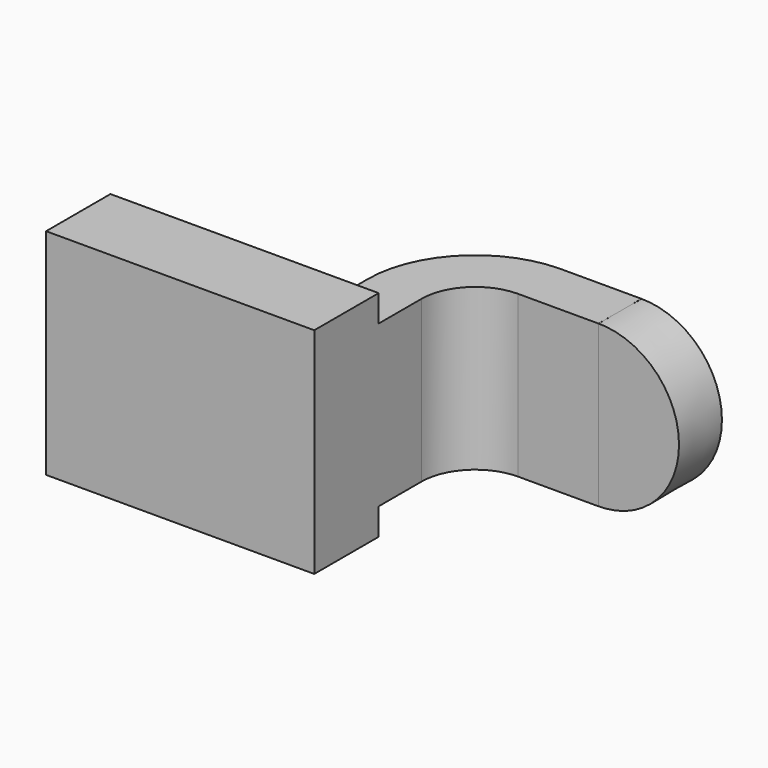
from build123d import *

# Parameters (mm, degrees)
F1_DEPTH      = 20
F1_DEPTH_BACK = 20
F2_DEPTH      = 15
F2_DEPTH_BACK = 15
F3_DEPTH      = 5
F3_DEPTH_BACK = 5


with BuildPart() as f1:
    # F0 (on Top) → F1 (new body, two sides)
    with BuildSketch(Plane.XY) as f1_sk:
        Polygon((15, 7.5), (-25, 7.5), (-25, -7.5), (25, -7.5), (25, 7.5), align=None)
    extrude(amount=F1_DEPTH)
    extrude(f1_sk.sketch, amount=-F1_DEPTH_BACK)

    # F0 (on Top) → F2 (join, two sides)
    with BuildSketch(Plane.XY) as f2_sk:
        Polygon((50.0030305161, 37.5), (35, 37.5), (35, 37.1808245778), (35, 27.5), (49.9969694839, 27.5), align=None)
        with BuildLine():
            Line((15, 17.5), (15, 7.5))
            Line((15, 7.5), (25, 7.5))
            Line((25, 7.5), (25, 17.5))
            ThreePointArc((25, 17.5), (27.9289321881, 24.5710678119), (35, 27.5))
            Line((35, 27.5), (35, 37.1808245778))
            Line((35, 37.1808245778), (35, 37.5))
            add(Edge.make_bspline(
                [(32.5050636149, 37.3437721322), (33.3130240247, 37.4207640742), (34.1440455975, 37.4733642234), (35, 37.5)],
                knots=[64.8399400902, 64.8399400902, 64.8399400902, 64.8399400902, 67.082039325, 67.082039325, 67.082039325, 67.082039325], degree=3))
            ThreePointArc((32.5050636149, 37.3437721322), (20.0016879666, 30.7306702834), (15, 17.5))
        make_face()
        Polygon((50.0030305161, 37.5), (35, 37.5), (35, 37.1808245778), (35, 27.5), (49.9969694839, 27.5), align=None)
    extrude(amount=F2_DEPTH)
    extrude(f2_sk.sketch, amount=-F2_DEPTH_BACK)

    # F0 (on Top) → F3 (join, two sides)
    with BuildSketch(Plane.XY) as f3_sk:
        with BuildLine():
            add(Edge.make_bspline(
                [(-25, 7.5), (5.0604127766, 12.4911778165), (9.1394142449, 35.1172190736), (32.5050636149, 37.3437721322)],
                knots=[0, 0, 0, 0, 64.8399400902, 64.8399400902, 64.8399400902, 64.8399400902], degree=3))
            Line((-25, 7.5), (15, 7.5))
            Line((15, 7.5), (15, 17.5))
            ThreePointArc((15, 17.5), (20.0016879666, 30.7306702834), (32.5050636149, 37.3437721322))
        make_face()
    extrude(amount=F3_DEPTH)
    extrude(f3_sk.sketch, amount=-F3_DEPTH_BACK)


with BuildPart() as f4:
    # F0 (on Top) → F4 (revolve)
    with BuildSketch(Plane.XY):
        Polygon((65, 37.5), (50.0030305161, 37.5), (49.9969694839, 27.5), (65, 27.5), align=None)
    revolve(axis=Axis((50, 32.5, 0), (-0.0006061031, -0.9999998163, 0)))


solid = Compound([f1.part, f4.part])
